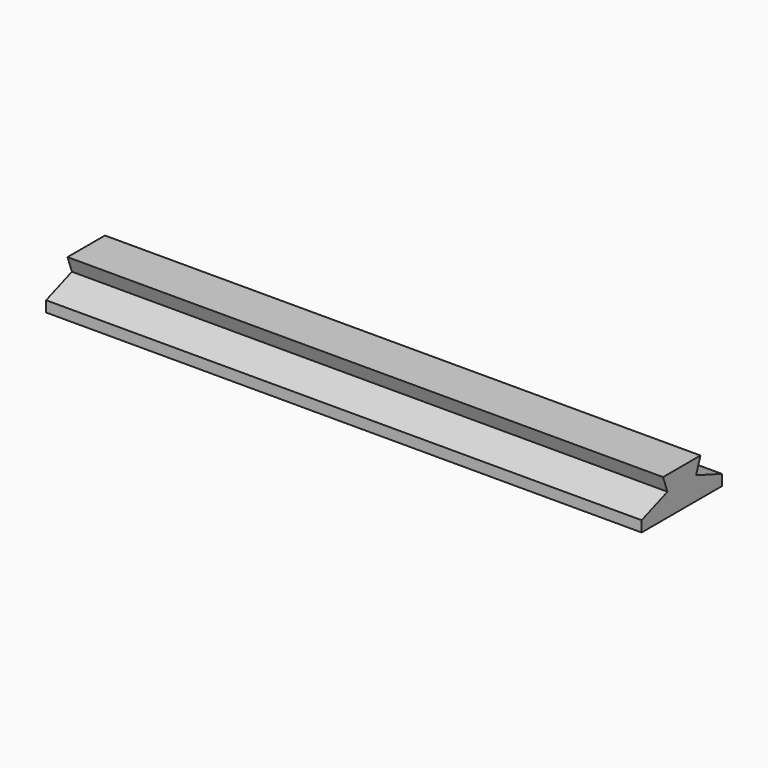
from build123d import *

# Parameters (mm, degrees)
F2_DEPTH      = 55
F2_DEPTH_BACK = 55


with BuildPart() as f2:
    # F1 (on Right) → F2 (new body, two sides)
    with BuildSketch(Plane.YZ) as f2_sk:
        Polygon((-9.27, -2.5), (-2.5, -2.5), (-3.3021166542, -0.2962026049), align=None)
        Polygon((3.3021166542, -0.2962026049), (2.5, 0), (2.5, -2.5), align=None)
        Polygon((-2.5, 0), (-2.5, 2.5), (-4.3198511713, 2.5), (-3.3021166542, -0.2962026049), align=None)
        Polygon((2.5, -2.5), (-2.5, -2.5), (-9.27, -2.5), (-9.27, -4.5), (9.27, -4.5), (9.27, -2.5), align=None)
        Polygon((2.5, 2.5), (-2.5, 2.5), (-2.5, 0), (-2.5, -2.5), (2.5, -2.5), (2.5, 0), align=None)
        Polygon((4.3198511713, 2.5), (2.5, 2.5), (2.5, 0), (3.3021166542, -0.2962026049), align=None)
        Polygon((-2.5, -2.5), (-2.5, 0), (-3.3021166542, -0.2962026049), align=None)
        Polygon((3.3021166542, -0.2962026049), (2.5, -2.5), (9.27, -2.5), align=None)
    extrude(amount=F2_DEPTH)
    extrude(f2_sk.sketch, amount=-F2_DEPTH_BACK)


solid = f2.part
